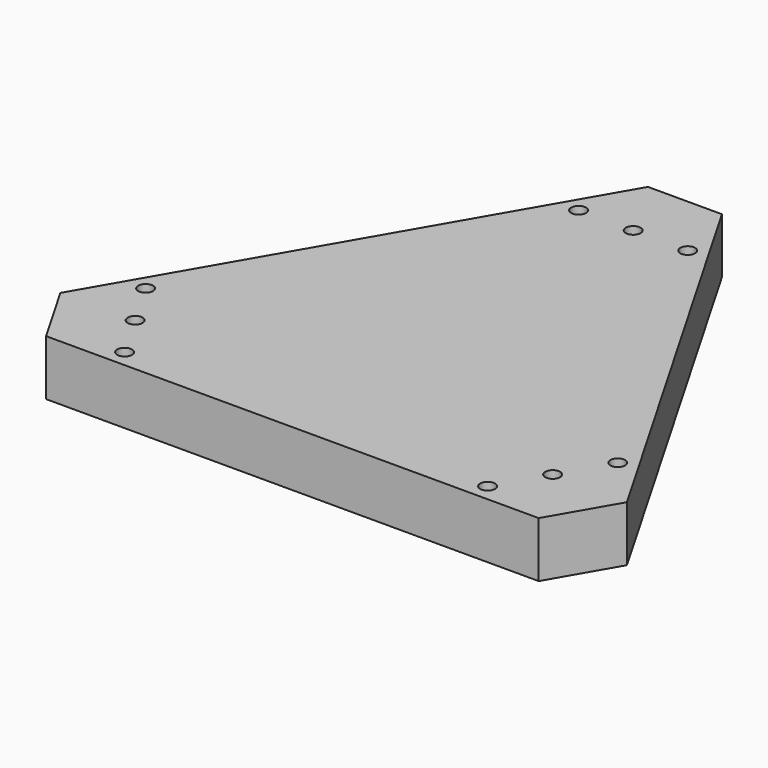
from build123d import *

# Parameters (mm, degrees)
F1_DEPTH = 30
F2_SIZE  = 40
F3_R     = 4
F4_DEPTH = 10


with BuildPart() as f1:
    # F0 (on Top) → F1 (new body)
    with BuildSketch(Plane.XY):
        Polygon((-173.205081, -100), (173.205081, -100), (0, 200), align=None)
    extrude(amount=F1_DEPTH)

    # F2
    f2_edges = [f1.edges().sort_by_distance(p)[0] for p in [
        (-173.205081, -100, 15),
        (173.205081, -100, 15),
        (0, 200, 15),
    ]]
    chamfer(f2_edges, length=F2_SIZE)

    # F3 (on face) → F4 (cut)
    with BuildSketch(Plane.XY.offset(30)):
        with Locations((-29.5, 130.358984)):
            Circle(F3_R)
        with Locations((29.5, 130.358984)):
            Circle(F3_R)
        with Locations((-98.144192, -90.727241)):
            Circle(F3_R)
        with Locations((-127.644192, -39.631743)):
            Circle(F3_R)
        with Locations((127.644192, -39.631743)):
            Circle(F3_R)
        with Locations((98.144192, -90.727241)):
            Circle(F3_R)
        with Locations((0, 130.358984)):
            Circle(F3_R)
        with Locations((-112.894192, -65.179492)):
            Circle(F3_R)
        with Locations((112.894192, -65.179492)):
            Circle(F3_R)
    extrude(amount=-F4_DEPTH, mode=Mode.SUBTRACT)


solid = f1.part
